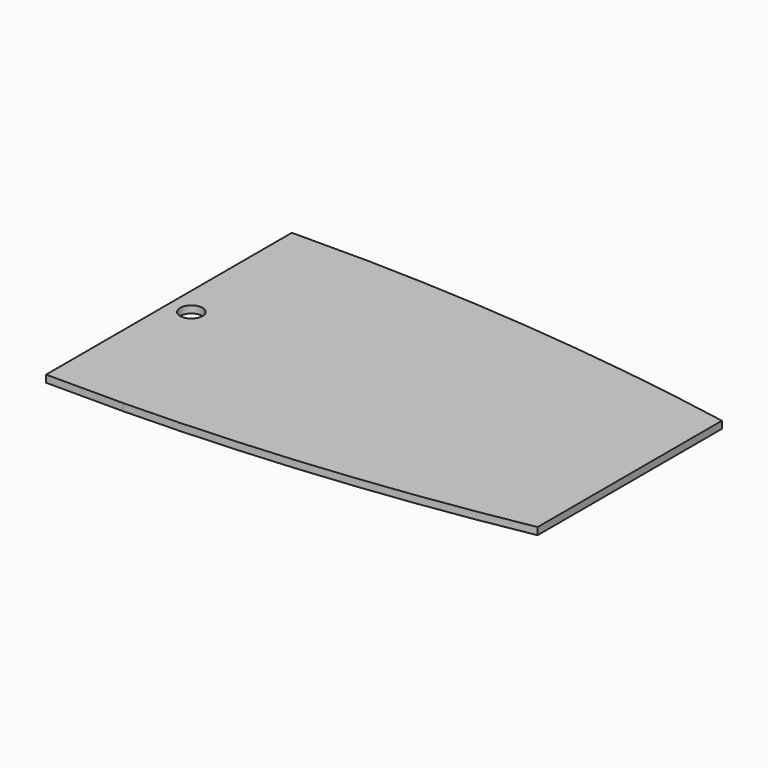
from build123d import *

# Parameters (mm, degrees)
F1_DEPTH = 28.575


with BuildPart() as f1:
    # F0 (on Top) → F1 (new body)
    with BuildSketch(Plane.XY):
        Polygon((914.4, -457.2), (914.4, 457.2), (-914.4, 609.6), (-914.4, 0), (-914.4, -609.6), align=None)
        with BuildLine():
            ThreePointArc((-781.05, 0), (-825.5, -44.45), (-869.95, 0))
            ThreePointArc((-869.95, 0), (-825.5, 44.45), (-781.05, 0))
        make_face(mode=Mode.SUBTRACT)
        with BuildLine():
            ThreePointArc((914.4, 457.2), (155.569507, 565.095069), (-609.6, 609.6))
            Line((-609.6, 609.6), (-914.4, 609.6))
            Line((-914.4, 609.6), (914.4, 457.2))
        make_face()
        with BuildLine():
            ThreePointArc((-609.6, -609.6), (155.569507, -565.095069), (914.4, -457.2))
            Line((914.4, -457.2), (-914.4, -609.6))
            Line((-914.4, -609.6), (-609.6, -609.6))
        make_face()
    extrude(amount=F1_DEPTH)


solid = f1.part
